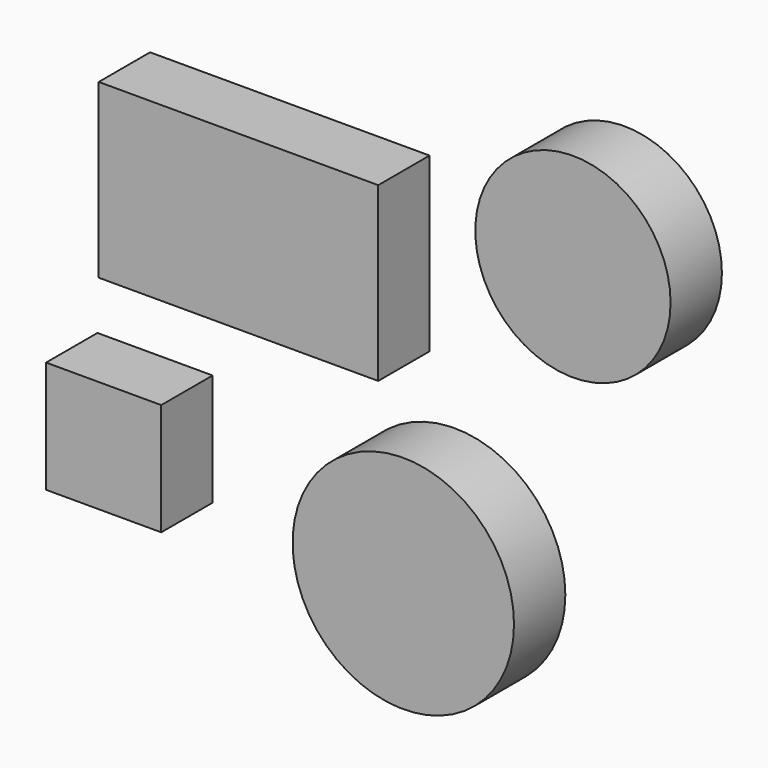
from build123d import *

# Parameters (mm, degrees)
F0_W     = 110.612904
F0_H     = 68.211291
F0_R     = 38.644214
F0_W_2   = 45.576855
F0_H_2   = 44.336669
F0_R_2   = 43.814318
F1_DEPTH = 25.4


with BuildPart() as f1:
    # F0 (on Front) → F1 (new body)
    with BuildSketch(Plane.XZ):
        with Locations((-42.585967, 7.005484)):
            Rectangle(F0_W, F0_H)
        with Locations((89.780815, 37.792742)):
            Circle(F0_R)
        with Locations((-95.945507, -85.609849)):
            Rectangle(F0_W_2, F0_H_2)
        with Locations((22.647336, -94.446182)):
            Circle(F0_R_2)
    extrude(amount=F1_DEPTH)


solid = f1.part
